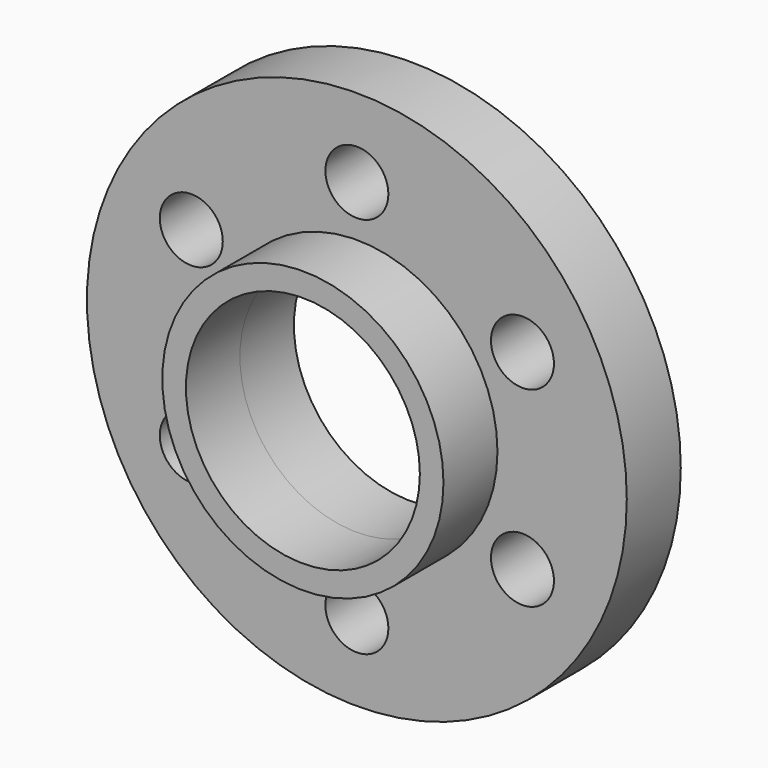
from build123d import *

# Parameters (mm, degrees)
F0_R     = 76.2
F0_R_2   = 8.89
F1_DEPTH = 19.05
F2_R     = 39.6875
F2_R_2   = 33.02
F3_DEPTH = 19.05
F4_R     = 33.02
F5_DEPTH = 25.4


with BuildPart() as f1:
    # F0 (on Front) → F1 (new body)
    with BuildSketch(Plane.XZ):
        Circle(F0_R)
        with Locations((-46.743721, -26.9875)):
            Circle(F0_R_2, mode=Mode.SUBTRACT)
        with Locations((0, -53.975)):
            Circle(F0_R_2, mode=Mode.SUBTRACT)
        with Locations((46.743721, -26.9875)):
            Circle(F0_R_2, mode=Mode.SUBTRACT)
        with Locations((-46.743721, 26.9875)):
            Circle(F0_R_2, mode=Mode.SUBTRACT)
        with Locations((46.743721, 26.9875)):
            Circle(F0_R_2, mode=Mode.SUBTRACT)
        with Locations((0, 53.975)):
            Circle(F0_R_2, mode=Mode.SUBTRACT)
    extrude(amount=F1_DEPTH)

    # F2 (on face) → F3 (join)
    with BuildSketch(Plane.XZ.offset(19.05)):
        Circle(F2_R)
        Circle(F2_R_2, mode=Mode.SUBTRACT)
    extrude(amount=F3_DEPTH)

    # F4 (on face) → F5 (cut)
    with BuildSketch(Plane.XZ.offset(19.05)):
        Circle(F4_R)
    extrude(amount=-F5_DEPTH, mode=Mode.SUBTRACT)


solid = f1.part
